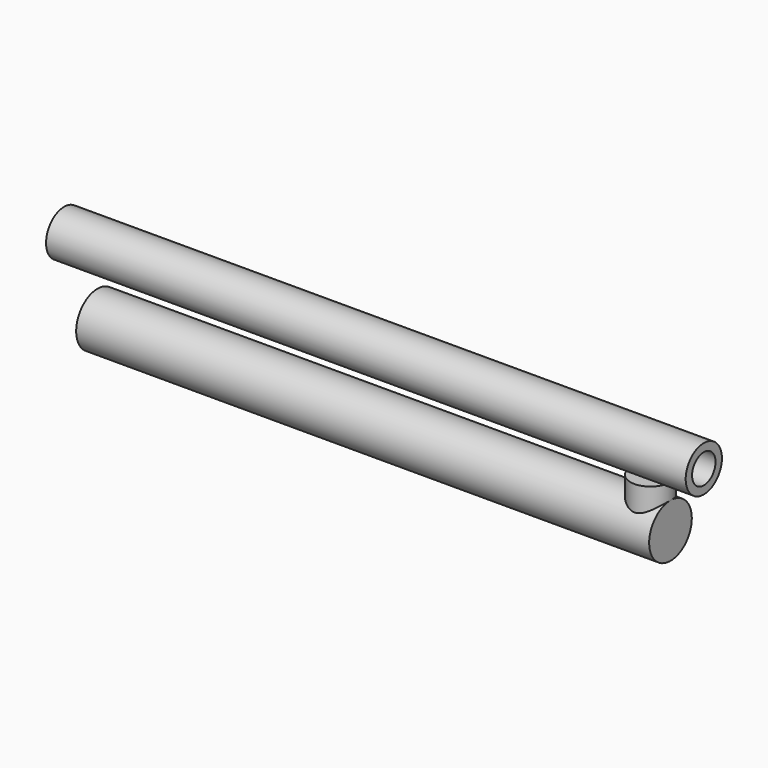
from build123d import *

# Parameters (mm, degrees)
F0_R     = 12.7
F1_DEPTH = 136.525
F2_R     = 9.525
F3_DEPTH = 20.32
F4_R     = 10.795
F5_DEPTH = 152.4
F6_T     = -3.81


with BuildPart() as f1:
    # F0 (on Right) → F1 (new body, symmetric)
    with BuildSketch(Plane.YZ):
        Circle(F0_R)
    extrude(amount=F1_DEPTH, both=True)

    # F2 (on Top) → F3 (join)
    with BuildSketch(Plane.XY):
        with Locations((127, 0)):
            Circle(F2_R)
    extrude(amount=F3_DEPTH)


with BuildPart() as f5:
    # F4 (on Right) → F5 (new body, symmetric)
    with BuildSketch(Plane.YZ):
        with Locations((0, 31.115)):
            Circle(F4_R)
    extrude(amount=F5_DEPTH, both=True)

    # F6
    f6_openings = [f5.faces().sort_by_distance(p)[0] for p in [
        (152.4, 0, 31.115),
    ]]
    offset(amount=F6_T, openings=f6_openings)


solid = Compound([f1.part, f5.part])
